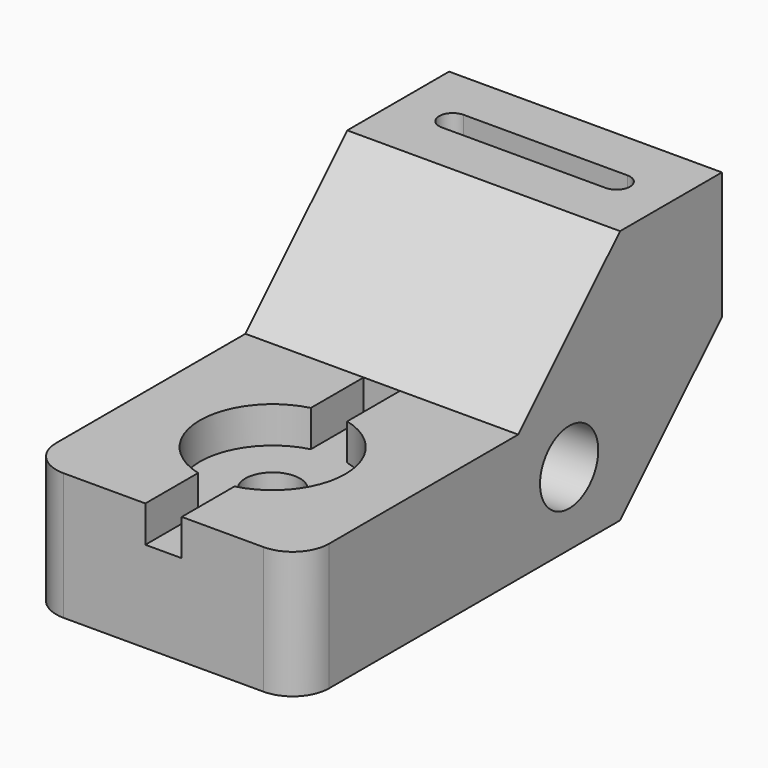
from build123d import *

# Parameters (mm, degrees)
F0_W           = 147.32
F0_H           = 71.12
F1_DEPTH       = 38.1
F3_DEPTH       = 76.201
F5_DEPTH       = 27.94
F6_R           = 10.16
F8_D           = 15.24
F8_CBORE_D     = 40.64
F8_CBORE_DEPTH = 10.16
F9_W           = 10.16
F9_H           = 76.2
F10_DEPTH      = 10.16
F12_D          = 20.32


with BuildPart() as f1:
    # F0 (on Right) → F1 (new body, symmetric)
    with BuildSketch(Plane.YZ):
        with Locations((0, 35.56)):
            Rectangle(F0_W, F0_H)
    extrude(amount=F1_DEPTH, both=True)

    # F2 (on face) → F3 (cut, through all)
    with BuildSketch(Plane.YZ.offset(38.1)):
        Polygon((2.54, 35.56), (38.1, 71.12), (-73.66, 71.12), (-73.66, 35.56), align=None)
        Polygon((73.66, 0), (73.66, 35.56), (38.1, 0), align=None)
    extrude(amount=-F3_DEPTH, mode=Mode.SUBTRACT)

    # F4 (on face) → F5 (cut)
    with BuildSketch(Plane.XY.offset(71.12)):
        with BuildLine():
            ThreePointArc((-22.86, 59.69), (-26.67, 55.88), (-22.86, 52.07))
            Line((-22.86, 52.07), (22.86, 52.07))
            ThreePointArc((22.86, 52.07), (26.67, 55.88), (22.86, 59.69))
            Line((22.86, 59.69), (-22.86, 59.69))
        make_face()
    extrude(amount=-F5_DEPTH, mode=Mode.SUBTRACT)

    # F6
    f6_edges = [f1.edges().sort_by_distance(p)[0] for p in [
        (38.1, -73.66, 17.78),
        (-38.1, -73.66, 17.78),
    ]]
    fillet(f6_edges, radius=F6_R)

    # F8 (through all)
    with Locations(Plane.XY.offset(35.56)):
        with Locations((0, -35.56)):
            CounterBoreHole(F8_D / 2, F8_CBORE_D / 2, F8_CBORE_DEPTH)

    # F9 (on face) → F10 (cut)
    with BuildSketch(Plane.XY.offset(35.56)):
        with Locations((0, -35.56)):
            Rectangle(F9_W, F9_H)
        with Locations((0, -35.56)):
            Rectangle(F9_W, F9_H)
    extrude(amount=-F10_DEPTH, mode=Mode.SUBTRACT)

    # F12 (through all)
    with Locations(Plane.YZ.offset(38.1)):
        with Locations((20.32, 20.32)):
            Hole(F12_D / 2)


solid = f1.part
